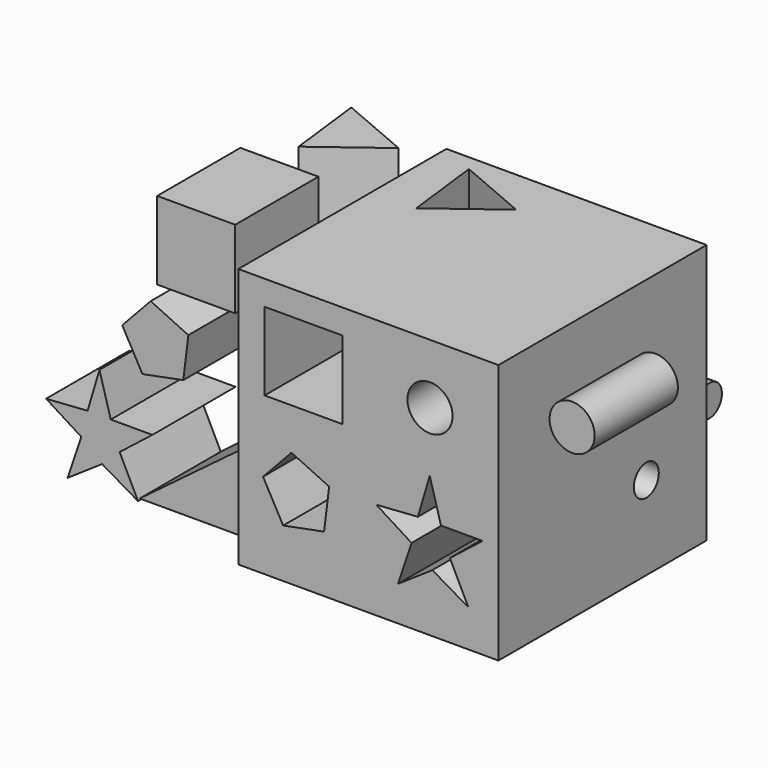
from build123d import *

# Parameters (mm, degrees)
F0_W      = 127
F0_H      = 127
F1_DEPTH  = 63.5
F2_W      = 38.1
F2_H      = 38.1
F3_DEPTH  = 50.8
F4_R      = 11.015952
F5_DEPTH  = 50.8
F7_DEPTH  = 50.8
F10_DEPTH = 50.8
F11_R     = 7.62
F12_DEPTH = 76.2
F13_DEPTH = 50.8
F15_DEPTH = 50.8
F16_W     = 38.1
F16_H     = 38.1
F17_DEPTH = 50.8
F18_R     = 11.015952
F19_DEPTH = 50.8
F22_R     = 7.62
F23_DEPTH = 50.8
F25_DEPTH = 50.8
F27_DEPTH = 50.8
F28_DEPTH = 50.8
F29_DEPTH = 50.8


with BuildPart() as f1:
    # F0 (on Front) → F1 (new body, symmetric)
    with BuildSketch(Plane.XZ):
        with Locations((3.532663, -9.446689)):
            Rectangle(F0_W, F0_H)
    extrude(amount=F1_DEPTH, both=True)

    # F2 (on face) → F3 (cut)
    with BuildSketch(Plane.XZ.offset(63.5)):
        with Locations((-28.070334, 22.945461)):
            Rectangle(F2_W, F2_H)
    extrude(amount=-F3_DEPTH, mode=Mode.SUBTRACT)

    # F4 (on face) → F5 (cut)
    with BuildSketch(Plane.XZ.offset(63.5)):
        with Locations((33.608019, 24.824105)):
            Circle(F4_R)
    extrude(amount=-F5_DEPTH, mode=Mode.SUBTRACT)

    # F6 (on face) → F7 (cut)
    with BuildSketch(Plane.XZ.offset(63.5)):
        Polygon((-38.062943, -49.076173), (-18.112773, -45.217009), (-15.618115, -25.050723), (-34.0265, -16.446437), (-47.898167, -31.294981), align=None)
    extrude(amount=-F7_DEPTH, mode=Mode.SUBTRACT)

    # F9 (on face) → F10 (cut)
    with BuildSketch(Plane.XY.offset(54.053311)):
        Polygon((-38.311298, 18.025117), (-7.8313, 40.885119), (-42.868641, 55.851571), align=None)
    extrude(amount=-F10_DEPTH, mode=Mode.SUBTRACT)

    # F11 (on face) → F12 (cut)
    with BuildSketch(Plane.YZ.offset(67.032663)):
        with Locations((26.733654, -32.080382)):
            Circle(F11_R)
    extrude(amount=-F12_DEPTH, mode=Mode.SUBTRACT)

    # F8 (on face) → F13 (cut)
    with BuildSketch(Plane.XZ.offset(63.5)):
        Polygon((33.483031, -4.474967), (27.686679, -23.950713), (7.41483, -25.348771), (24.619139, -36.161457), (17.945699, -55.948322), (34.773534, -44.558572), (52.321579, -54.803986), (43.322718, -36.585235), (59.304582, -24.036034), (38.984582, -24.036034), align=None)
    extrude(amount=-F13_DEPTH, mode=Mode.SUBTRACT)

    # F14 (on face) → F15 (cut)
    with BuildSketch(Plane(origin=(0, 63.5, 0), x_dir=(-1, 0, 0), z_dir=(0, 1, 0))):
        Polygon((-8.870894, 1.764057), (-59.670894, 39.864057), (-59.670894, 1.764057), align=None)
    extrude(amount=-F15_DEPTH, mode=Mode.SUBTRACT)


with BuildPart() as f17:
    # F16 (on Front) → F17 (new body)
    with BuildSketch(Plane.XZ):
        with Locations((-90.703465, 45.065299)):
            Rectangle(F16_W, F16_H)
    extrude(amount=F17_DEPTH)


with BuildPart() as f19:
    # F18 (on Front) → F19 (new body)
    with BuildSketch(Plane.XZ):
        with Locations((92.824951, 30.552745)):
            Circle(F18_R)
    extrude(amount=F19_DEPTH)


with BuildPart() as f23:
    # F22 (on Right) → F23 (new body)
    with BuildSketch(Plane.YZ):
        with Locations((85.547686, -27.115561)):
            Circle(F22_R)
    extrude(amount=F23_DEPTH)


with BuildPart() as f25:
    # F24 (on Top) → F25 (new body)
    with BuildSketch(Plane.XY):
        Polygon((-109.011692, 34.624267), (-78.531693, 57.484268), (-113.569035, 72.450721), align=None)
    extrude(amount=F25_DEPTH)


with BuildPart() as f27:
    # F26 (on Front) → F27 (new body)
    with BuildSketch(Plane.XZ):
        Polygon((-67.479494, -68.69821), (-67.479494, -30.59821), (-118.279494, -68.69821), align=None)
    extrude(amount=F27_DEPTH)


with BuildPart() as f28:
    # F21 (on Front) → F28 (new body)
    with BuildSketch(Plane.XZ):
        Polygon((-137.912574, -19.801257), (-143.708927, -39.277004), (-163.980775, -40.675062), (-146.776467, -51.487747), (-153.449907, -71.274612), (-136.622072, -59.884863), (-119.074027, -70.130277), (-128.072888, -51.911525), (-112.091024, -39.362324), (-132.411024, -39.362324), align=None)
    extrude(amount=F28_DEPTH)


with BuildPart() as f29:
    # F20 (on Front) → F29 (new body)
    with BuildSketch(Plane.XZ):
        Polygon((-116.95973, -14.785924), (-97.00956, -10.92676), (-94.514902, 9.239525), (-112.923287, 17.843812), (-126.794954, 2.995267), align=None)
    extrude(amount=F29_DEPTH)


solid = Compound([f1.part, f17.part, f19.part, f23.part, f25.part, f27.part, f28.part, f29.part])
